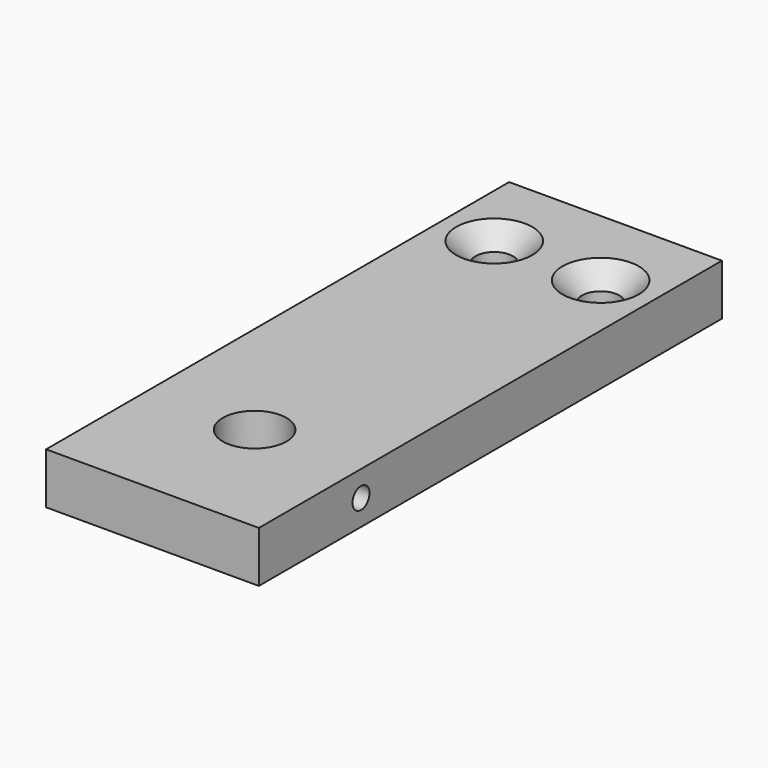
from build123d import *

# Parameters (mm, degrees)
F0_W           = 50
F0_H           = 136
F1_DEPTH       = 12
F3_D           = 15
F5_D           = 8.8
F5_CSINK_D     = 17.92
F5_CSINK_ANGLE = 90
F7_D           = 5
F7_DEPTH       = 20
F7_TIP         = 1.5021515476


with BuildPart() as f1:
    # F0 (on Top) → F1 (new body)
    with BuildSketch(Plane.XY):
        Rectangle(F0_W, F0_H)
    extrude(amount=-F1_DEPTH)

    # F3 (through all)
    with Locations(Plane.XY):
        with Locations((0, -38)):
            Hole(F3_D / 2)

    # F5 (through all)
    with Locations(Plane.XY):
        with Locations((12.5, 48), (-12.5, 48)):
            CounterSinkHole(F5_D / 2, F5_CSINK_D / 2, counter_sink_angle=F5_CSINK_ANGLE)

    # F7
    with Locations(Plane.YZ.offset(25)):
        with Locations((-38, -6)):
            Hole(F7_D / 2, depth=F7_DEPTH)
            with Locations((0, 0, -(F7_DEPTH + F7_TIP / 2))):  # 118° drill point
                Cone(0, F7_D / 2, F7_TIP, mode=Mode.SUBTRACT)


solid = f1.part
